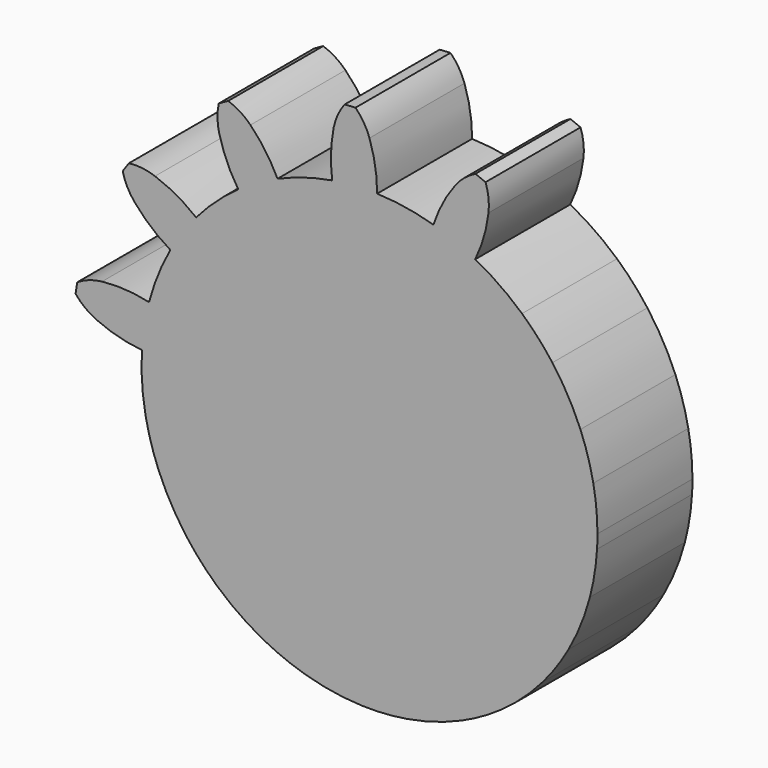
from build123d import *

# Parameters (mm, degrees)
F1_DEPTH = 25.4


with BuildPart() as f1:
    # F0 (on Front) → F1 (new body)
    with BuildSketch(Plane.XZ):
        with BuildLine():
            ThreePointArc((48.680444, -2.920995), (48.746106, -1.461153), (48.768, 0))
            ThreePointArc((48.768, 0), (48.546173, 4.646173), (47.88271, 9.250078))
            ThreePointArc((47.88271, 9.250078), (46.733738, 13.938277), (45.126937, 18.489927))
            ThreePointArc((45.126937, 18.489927), (42.460467, 23.98805), (39.127372, 29.109562))
            ThreePointArc((39.127372, 29.109562), (36.058052, 32.834962), (32.635486, 36.238693))
            ThreePointArc((32.635486, 36.238693), (27.847534, 40.035392), (22.622379, 43.203539))
            ThreePointArc((22.622379, 43.203539), (18.240626, 45.228281), (13.680177, 46.809941))
            ThreePointArc((13.680177, 46.809941), (7.719056, 48.153235), (1.636746, 48.740526))
            ThreePointArc((1.636746, 48.740526), (-3.18958, 48.663584), (-7.984658, 48.109906))
            ThreePointArc((-7.984658, 48.109906), (-13.938277, 46.733738), (-19.673065, 44.623854))
            ThreePointArc((-19.673065, 44.623854), (-23.98805, 42.460467), (-28.068034, 39.881114))
            ThreePointArc((-28.068034, 39.881114), (-32.834962, 36.058052), (-37.086384, 31.66888))
            ThreePointArc((-37.086384, 31.66888), (-40.035392, 27.847534), (-42.592192, 23.753379))
            ThreePointArc((-42.592192, 23.753379), (-45.228281, 18.240626), (-47.154289, 12.441496))
            ThreePointArc((-47.154289, 12.441496), (-48.153235, 7.719056), (-48.680444, 2.920995))
            ThreePointArc((-48.680444, 2.920995), (-48.663584, -3.18958), (-47.88271, -9.250078))
            ThreePointArc((-47.88271, -9.250078), (-46.733738, -13.938277), (-45.126937, -18.489927))
            ThreePointArc((-45.126937, -18.489927), (-42.460467, -23.98805), (-39.127372, -29.109562))
            ThreePointArc((-39.127372, -29.109562), (-36.058052, -32.834962), (-32.635486, -36.238693))
            ThreePointArc((-32.635486, -36.238693), (-27.847534, -40.035392), (-22.622379, -43.203539))
            ThreePointArc((-22.622379, -43.203539), (-18.240626, -45.228281), (-13.680177, -46.809941))
            ThreePointArc((-13.680177, -46.809941), (-7.719056, -48.153235), (-1.636746, -48.740526))
            ThreePointArc((-1.636746, -48.740526), (3.18958, -48.663584), (7.984658, -48.109906))
            ThreePointArc((7.984658, -48.109906), (13.938277, -46.733738), (19.673065, -44.623854))
            ThreePointArc((19.673065, -44.623854), (23.98805, -42.460467), (28.068034, -39.881114))
            ThreePointArc((28.068034, -39.881114), (32.834962, -36.058052), (37.086384, -31.66888))
            ThreePointArc((37.086384, -31.66888), (40.035392, -27.847534), (42.592192, -23.753379))
            ThreePointArc((42.592192, -23.753379), (45.228281, -18.240626), (47.154289, -12.441496))
            ThreePointArc((47.154289, -12.441496), (48.153235, -7.719056), (48.680444, -2.920995))
        make_face()
        with BuildLine():
            ThreePointArc((-48.680444, 2.920995), (-48.153235, 7.719056), (-47.154289, 12.441496))
            ThreePointArc((-47.154289, 12.441496), (-52.152725, 13.171914), (-57.20292, 13.056193))
            ThreePointArc((-57.20292, 13.056193), (-59.960814, 12.434145), (-62.504457, 11.200127))
            ThreePointArc((-62.504457, 11.200127), (-62.699524, 10.050854), (-62.873461, 8.898193))
            ThreePointArc((-62.873461, 8.898193), (-60.842988, 6.930936), (-58.417717, 5.478016))
            ThreePointArc((-58.417717, 5.478016), (-53.656736, 3.789545), (-48.680444, 2.920995))
        make_face()
        with BuildLine():
            ThreePointArc((-42.592192, 23.753379), (-40.035392, 27.847534), (-37.086384, 31.66888))
            ThreePointArc((-37.086384, 31.66888), (-41.272902, 34.495704), (-45.87318, 36.582641))
            ThreePointArc((-45.87318, 36.582641), (-48.627853, 37.218799), (-51.455017, 37.210634))
            ThreePointArc((-51.455017, 37.210634), (-52.129417, 36.25981), (-52.78625, 35.296768))
            ThreePointArc((-52.78625, 35.296768), (-51.810418, 32.643341), (-50.255722, 30.28202))
            ThreePointArc((-50.255722, 30.28202), (-46.698827, 26.695048), (-42.592192, 23.753379))
        make_face()
        with BuildLine():
            ThreePointArc((-28.068034, 39.881114), (-23.98805, 42.460467), (-19.673065, 44.623854))
            ThreePointArc((-19.673065, 44.623854), (-22.218475, 48.987196), (-25.457695, 52.863447))
            ThreePointArc((-25.457695, 52.863447), (-27.66355, 54.631814), (-30.214279, 55.851118))
            ThreePointArc((-30.214279, 55.851118), (-31.23444, 55.287067), (-32.244075, 54.704384))
            ThreePointArc((-32.244075, 54.704384), (-32.516159, 51.890332), (-32.139965, 49.088297))
            ThreePointArc((-32.139965, 49.088297), (-30.491642, 44.313269), (-28.068034, 39.881114))
        make_face()
        with BuildLine():
            ThreePointArc((-7.984658, 48.109906), (-3.18958, 48.663584), (1.636746, 48.740526))
            ThreePointArc((1.636746, 48.740526), (1.236594, 53.776174), (0, 58.674))
            ThreePointArc((0, 58.674), (-1.220142, 61.224328), (-2.989233, 63.429603))
            ThreePointArc((-2.989233, 63.429603), (-4.153099, 63.364042), (-5.315565, 63.277127))
            ThreePointArc((-5.315565, 63.277127), (-6.781675, 60.859806), (-7.658494, 58.172036))
            ThreePointArc((-7.658494, 58.172036), (-8.245214, 53.154703), (-7.984658, 48.109906))
        make_face()
        with BuildLine():
            ThreePointArc((13.680177, 46.809941), (18.240626, 45.228281), (22.622379, 43.203539))
            ThreePointArc((22.622379, 43.203539), (24.44674, 47.91412), (25.457695, 52.863447))
            ThreePointArc((25.457695, 52.863447), (25.464931, 55.690613), (24.827867, 58.445077))
            ThreePointArc((24.827867, 58.445077), (23.750815, 58.890991), (22.665758, 59.317058))
            ThreePointArc((22.665758, 59.317058), (20.296002, 57.775249), (18.339836, 55.734089))
            ThreePointArc((18.339836, 55.734089), (15.634281, 51.468197), (13.680177, 46.809941))
        make_face()
    extrude(amount=F1_DEPTH)


solid = f1.part
